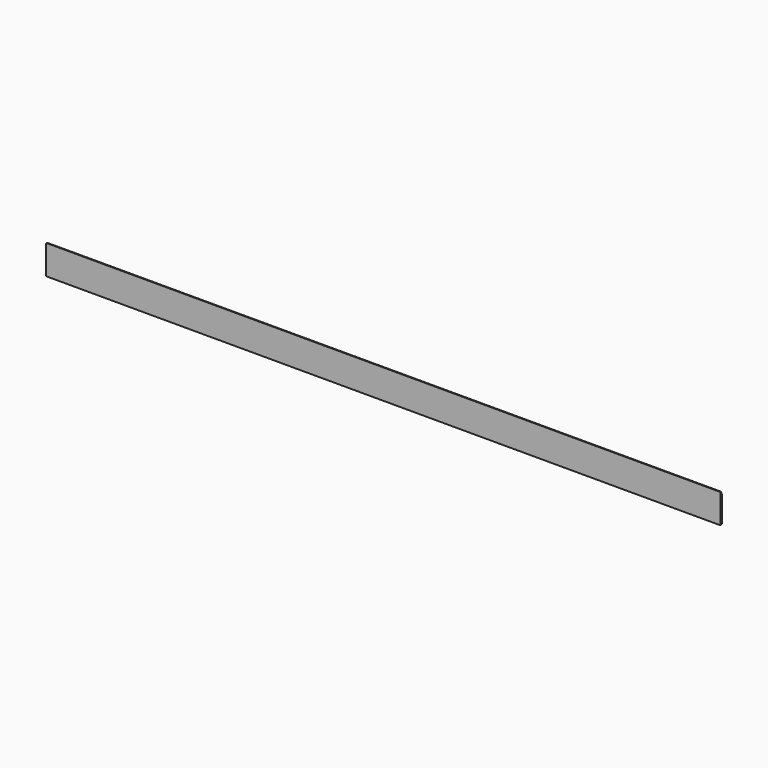
from build123d import *

# Parameters (mm, degrees)
F0_W     = 1380
F0_H     = 60
F1_DEPTH = 3
F2_W     = 1380
F2_H     = 5
F3_DEPTH = 1.5
F4_R     = 2


with BuildPart() as f1:
    # F0 (on Front) → F1 (new body)
    with BuildSketch(Plane.XZ):
        Rectangle(F0_W, F0_H)
    extrude(amount=F1_DEPTH)

    # F2 (on face) → F3 (cut)
    with BuildSketch(Plane(origin=(0, 0, 0), x_dir=(-1, 0, 0), z_dir=(0, 1, 0))):
        with Locations((0, 27.5)):
            Rectangle(F2_W, F2_H)
    extrude(amount=-F3_DEPTH, mode=Mode.SUBTRACT)

    # F4
    f4_edges = [f1.edges().sort_by_distance(p)[0] for p in [
        (690, -2.25, 30),
        (690, -1.5, -30),
        (-690, -2.25, 30),
        (-690, -1.5, -30),
    ]]
    fillet(f4_edges, radius=F4_R)


solid = f1.part
